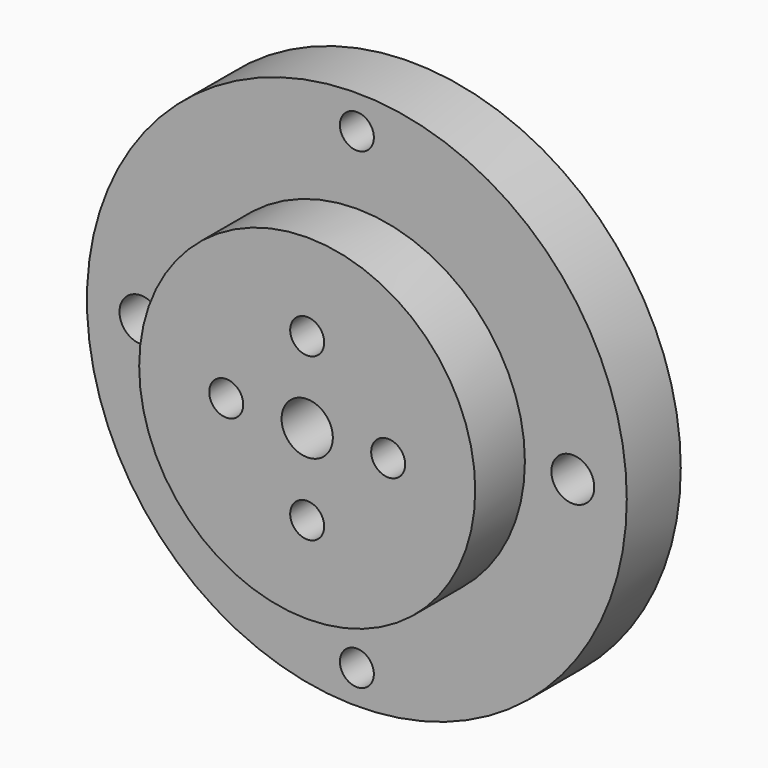
from build123d import *

# Parameters (mm, degrees)
F0_R     = 25.4
F1_DEPTH = 6.35
F2_R     = 15.8115
F3_DEPTH = 5.842
F4_R     = 1.6002
F4_R_2   = 2.413
F5_DEPTH = 7.62
F6_R     = 4.064
F7_DEPTH = 5.08
F8_R     = 1.6002
F8_R_2   = 2.0193
F9_DEPTH = 12.193


with BuildPart() as f1:
    # F0 (on Front) → F1 (new body)
    with BuildSketch(Plane.XZ):
        Circle(F0_R)
    extrude(amount=F1_DEPTH)

    # F2 (on face) → F3 (join)
    with BuildSketch(Plane.XZ.offset(6.35)):
        Circle(F2_R)
    extrude(amount=F3_DEPTH)

    # F4 (on face) → F5 (cut)
    with BuildSketch(Plane.XZ.offset(12.192)):
        with Locations((7.62, 0)):
            Circle(F4_R)
        with Locations((0, 7.62)):
            Circle(F4_R)
        with Locations((-7.62, 0)):
            Circle(F4_R)
        with Locations((0, -7.62)):
            Circle(F4_R)
        Circle(F4_R_2)
    extrude(amount=-F5_DEPTH, mode=Mode.SUBTRACT)

    # F6 (on face) → F7 (cut)
    with BuildSketch(Plane(origin=(0, 0, 0), x_dir=(-1, 0, 0), z_dir=(0, 1, 0))):
        Circle(F6_R)
    extrude(amount=-F7_DEPTH, mode=Mode.SUBTRACT)

    # F8 (on face) → F9 (cut, through all)
    with BuildSketch(Plane(origin=(0, 0, 0), x_dir=(-1, 0, 0), z_dir=(0, 1, 0))):
        with Locations((0, 22.225)):
            Circle(F8_R)
        with Locations((20.32, 0)):
            Circle(F8_R_2)
        with Locations((0, -22.225)):
            Circle(F8_R)
        with Locations((-20.32, 0)):
            Circle(F8_R_2)
    extrude(amount=-F9_DEPTH, mode=Mode.SUBTRACT)


solid = f1.part
